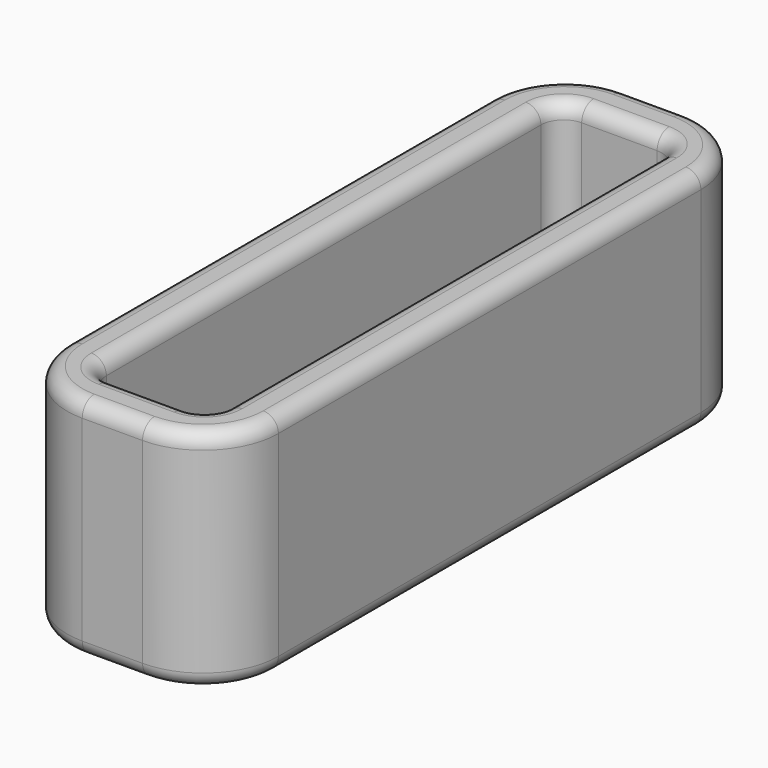
from build123d import *

# Parameters (mm, degrees)
PAD_DEPTH = 15
FILLET_R  = 1


with BuildPart() as part:
    # Sketch → Pad (new body)
    with BuildSketch(Plane.XY):
        with BuildLine():
            Line((5, 0), (9, 0))
            ThreePointArc((9, 0), (12.535534, 1.464466), (14, 5))
            Line((14, 5), (14, 40))
            ThreePointArc((14, 40), (12.535534, 43.535534), (9, 45))
            Line((9, 45), (5, 45))
            ThreePointArc((5, 45), (1.464466, 43.535534), (0, 40))
            Line((0, 40), (0, 5))
            ThreePointArc((0, 5), (1.464466, 1.464466), (5, 0))
        make_face()
        with BuildLine():
            Line((4.5, 3), (9.5, 3))
            ThreePointArc((9.5, 3), (10.56066, 3.43934), (11, 4.5))
            Line((11, 4.5), (11, 40.5))
            ThreePointArc((11, 40.5), (10.56066, 41.56066), (9.5, 42))
            Line((9.5, 42), (4.5, 42))
            ThreePointArc((4.5, 42), (3.43934, 41.56066), (3, 40.5))
            Line((3, 40.5), (3, 4.5))
            ThreePointArc((3, 4.5), (3.43934, 3.43934), (4.5, 3))
        make_face(mode=Mode.SUBTRACT)
    extrude(amount=PAD_DEPTH)

    # Fillet
    fillet_edges = [part.edges().sort_by_distance(p)[0] for p in [
        (11, 22.5, 15),
        (14, 22.5, 15),
        (14, 22.5, 0),
        (11, 22.5, 0),
    ]]
    fillet(fillet_edges, radius=FILLET_R)


solid = part.part
